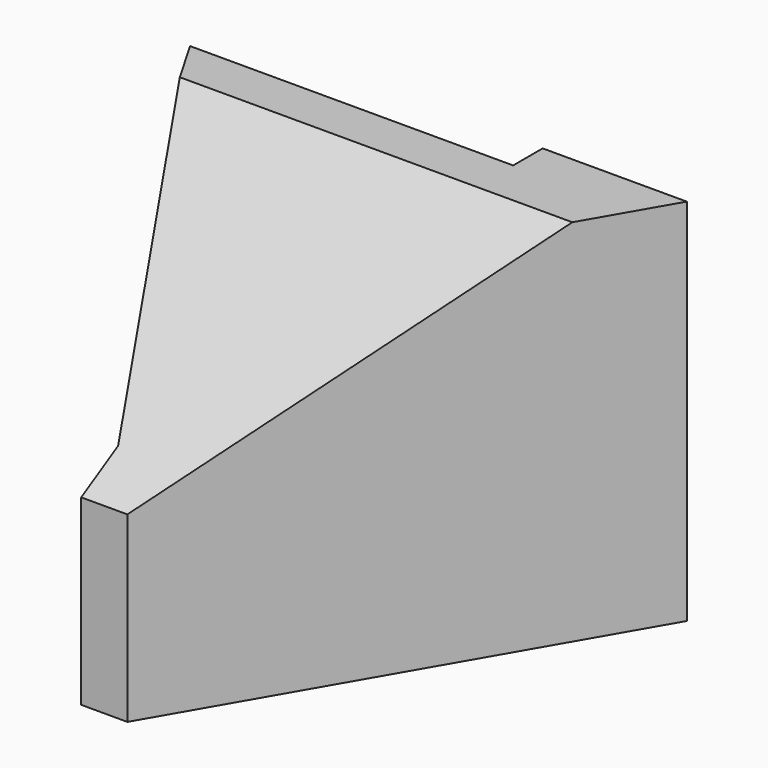
from build123d import *

# Parameters (mm, degrees)
F1_DEPTH      = 40
F3_DEPTH      = 25.2082594216
F3_DEPTH_BACK = 25


with BuildPart() as f1:
    # F0 (on Top) → F1 (new body)
    with BuildSketch(Plane.XY):
        Polygon((-5, 0), (0, 0), (25.4034118443, 44), (9.7927405784, 44), (9.7927405784, 40), (0, 40), (-25.2072594216, 40), (-5, 5), align=None)
    extrude(amount=F1_DEPTH)

    # F2 (on Right) → F3 (cut, two sides)
    with BuildSketch(Plane.YZ) as f3_sk:
        Polygon((35, 40), (0, 40), (0, 19.7927405784), align=None)
    extrude(amount=-F3_DEPTH, mode=Mode.SUBTRACT)
    extrude(f3_sk.sketch, amount=F3_DEPTH_BACK, mode=Mode.SUBTRACT)


solid = f1.part
